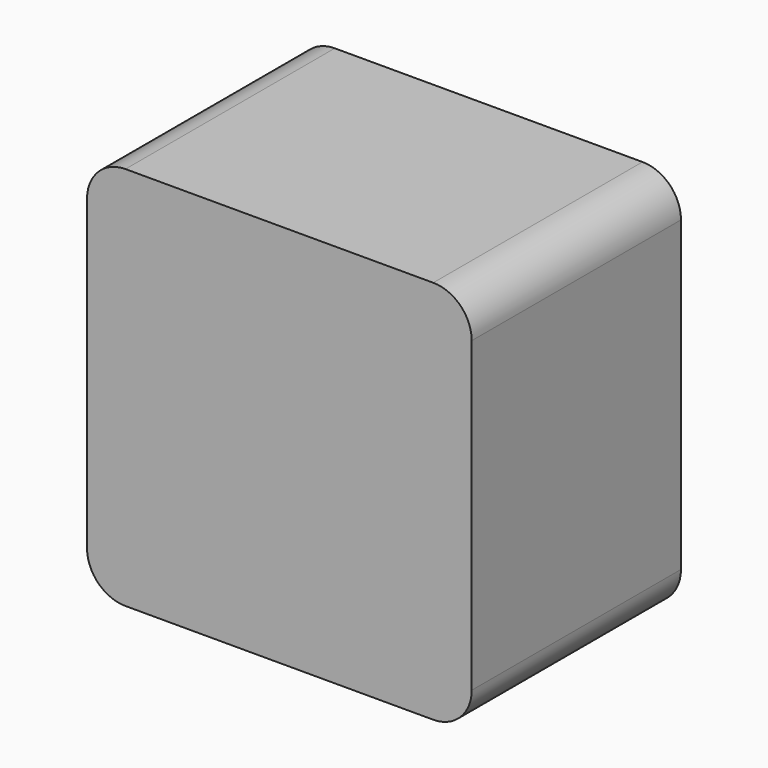
from build123d import *

# Parameters (mm, degrees)
F0_W     = 20
F0_H     = 20
F0_W_2   = 10.42
F0_H_2   = 10.42
F1_DEPTH = 1.6
F2_DEPTH = 12
F3_W     = 20
F3_H     = 20
F3_W_2   = 10.42
F3_H_2   = 10.42
F4_DEPTH = 1.6
F5_R     = 2


with BuildPart() as f1:
    # F0 (on Front) → F1 (new body)
    with BuildSketch(Plane.XZ):
        Rectangle(F0_W, F0_H)
        Rectangle(F0_W_2, F0_H_2, mode=Mode.SUBTRACT)
        Rectangle(F0_W_2, F0_H_2)
    extrude(amount=F1_DEPTH)

    # F0 (on Front) → F2 (join)
    with BuildSketch(Plane.XZ):
        Rectangle(F0_W, F0_H)
        Rectangle(F0_W_2, F0_H_2, mode=Mode.SUBTRACT)
    extrude(amount=F2_DEPTH)

    # F3 (on face) → F4 (join)
    with BuildSketch(Plane.XZ.offset(12)):
        Rectangle(F3_W, F3_H)
        Rectangle(F3_W_2, F3_H_2, mode=Mode.SUBTRACT)
        Rectangle(F3_W_2, F3_H_2)
    extrude(amount=F4_DEPTH)

    # F5
    f5_edges = [f1.edges().sort_by_distance(p)[0] for p in [
        (-10, -6.8, -10),
        (10, -6.8, -10),
        (10, -6.8, 10),
        (-10, -6.8, 10),
    ]]
    fillet(f5_edges, radius=F5_R)


solid = f1.part
